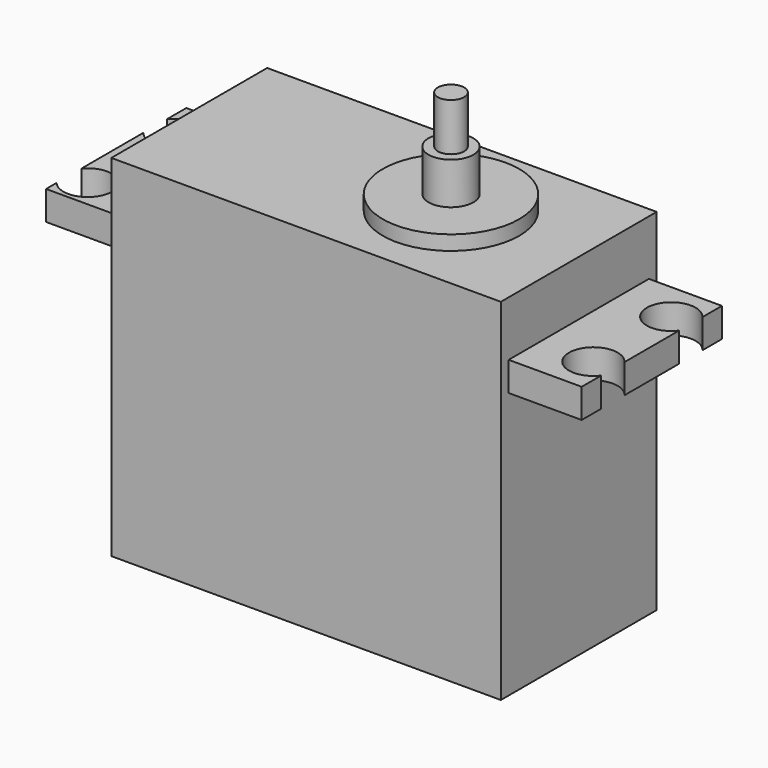
from build123d import *

# Parameters (mm, degrees)
F0_W      = 40
F0_H      = 20
F1_DEPTH  = 36
F2_W      = 18
F2_H      = 3
F3_DEPTH  = 7.5
F4_W      = 18
F4_H      = 2.9874
F5_DEPTH  = 7.5
F8_D      = 5
F9_R      = 7
F10_DEPTH = 1.5
F11_R     = 2.3
F12_DEPTH = 4.3
F13_R     = 1.35
F14_DEPTH = 4.9


with BuildPart() as f1:
    # F0 (on Top) → F1 (new body)
    with BuildSketch(Plane.XY):
        with Locations((0.734034, -5.869799)):
            Rectangle(F0_W, F0_H)
    extrude(amount=F1_DEPTH)

    # F2 (on face) → F3 (join)
    with BuildSketch(Plane.YZ.offset(20.734034)):
        with Locations((-5.869799, 28.848891)):
            Rectangle(F2_W, F2_H)
    extrude(amount=F3_DEPTH)

    # F4 (on face) → F5 (join)
    with BuildSketch(Plane(origin=(-19.265966, 0, 0), x_dir=(0, -1, 0), z_dir=(-1, 0, 0))):
        with Locations((5.869799, 28.855191)):
            Rectangle(F4_W, F4_H)
    extrude(amount=F5_DEPTH)

    # F8 (through all)
    with Locations(Plane.XY.offset(30.348891)):
        with Locations((-24.765966, -0.869799), (-24.838559, -11.935355), (26.234034, -10.869799), (26.234034, -0.869799)):
            Hole(F8_D / 2)

    # F9 (on face) → F10 (join)
    with BuildSketch(Plane.XY.offset(36)):
        with Locations((7.723857, -6.007267)):
            Circle(F9_R)
    extrude(amount=F10_DEPTH)

    # F11 (on face) → F12 (join)
    with BuildSketch(Plane.XY.offset(37.5)):
        with Locations((7.723857, -6.007267)):
            Circle(F11_R)
    extrude(amount=F12_DEPTH)

    # F13 (on face) → F14 (join)
    with BuildSketch(Plane.XY.offset(41.8)):
        with Locations((7.723857, -6.007267)):
            Circle(F13_R)
    extrude(amount=F14_DEPTH)


solid = f1.part
